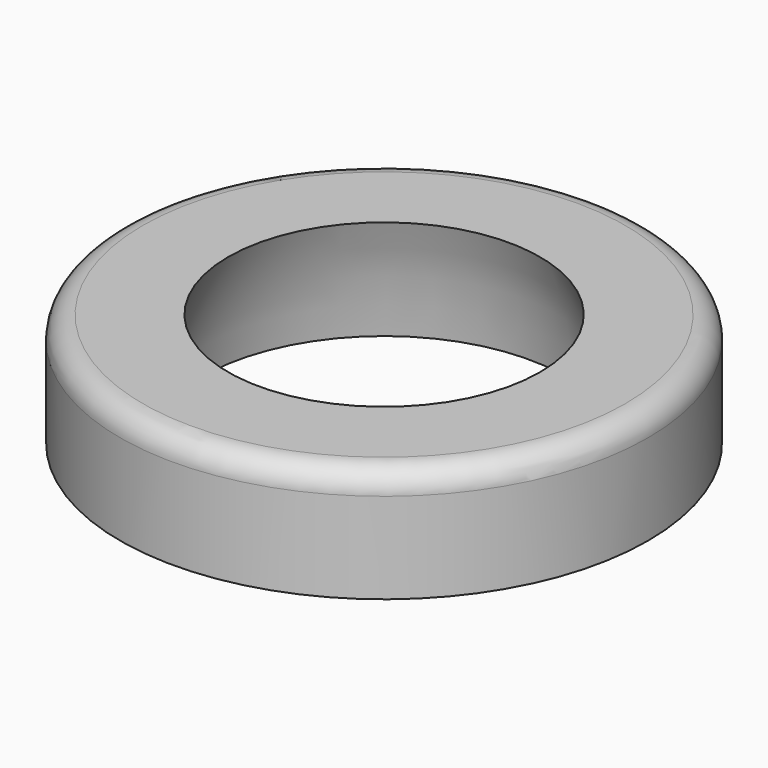
from build123d import *

# Parameters (mm, degrees)
F0_R     = 1.165
F2_DEPTH = 0.5
F4_R     = 0.1


with BuildPart() as f2:
    # F0 (on Top) → F2 (new body)
    with BuildSketch(Plane.XY):
        Circle(F0_R)
    extrude(amount=F2_DEPTH)

    # F1 (on Front) → F3 (revolve, cut)
    with BuildSketch(Plane.XZ):
        with BuildLine():
            Line((0.339578, 1), (0, 1))
            Line((0, 1), (0, 0))
            Line((0, 0), (0.8, 0))
            ThreePointArc((0.8, 0), (0.6878, 0.501397), (0.438715, 0.950779))
            ThreePointArc((0.438715, 0.950779), (0.39492, 0.987017), (0.339578, 1))
        make_face()
    revolve(axis=Axis((0, 0, 0.720749), (0, 0, -1)), mode=Mode.SUBTRACT)

    # F4
    f4_edges = [f2.edges().sort_by_distance(p)[0] for p in [
        (-1.165, 0, 0.5),
    ]]
    fillet(f4_edges, radius=F4_R)


solid = f2.part
